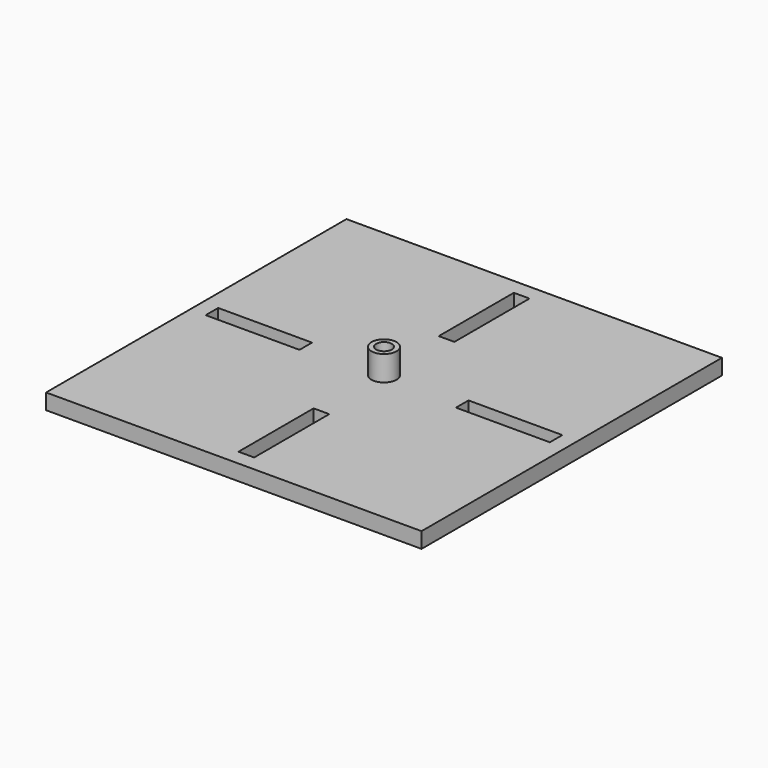
from build123d import *

# Parameters (mm, degrees)
F0_W      = 152.4
F0_H      = 152.4
F1_DEPTH  = 6.35
F2_W      = 38.1
F2_H      = 6.35
F3_DEPTH  = 25.4
F4_W      = 6.35
F4_H      = 38.1
F5_DEPTH  = 25.4
F6_W      = 38.1
F6_H      = 6.35
F7_DEPTH  = 25.4
F8_W      = 6.35
F8_H      = 38.1
F9_DEPTH  = 25.4
F10_R     = 5.08
F11_DEPTH = 10.16
F12_R     = 3.175
F13_DEPTH = 8.89


with BuildPart() as f1:
    # F0 (on Top) → F1 (new body)
    with BuildSketch(Plane.XY):
        Rectangle(F0_W, F0_H)
    extrude(amount=F1_DEPTH)

    # F2 (on face) → F3 (cut)
    with BuildSketch(Plane.XY.offset(6.35)):
        with Locations((50.8, 0)):
            Rectangle(F2_W, F2_H)
    extrude(amount=-F3_DEPTH, mode=Mode.SUBTRACT)

    # F4 (on face) → F5 (cut)
    with BuildSketch(Plane.XY.offset(6.35)):
        with Locations((0, -50.8)):
            Rectangle(F4_W, F4_H)
    extrude(amount=-F5_DEPTH, mode=Mode.SUBTRACT)

    # F6 (on face) → F7 (cut)
    with BuildSketch(Plane.XY.offset(6.35)):
        with Locations((-50.8, 0)):
            Rectangle(F6_W, F6_H)
    extrude(amount=-F7_DEPTH, mode=Mode.SUBTRACT)

    # F8 (on face) → F9 (cut)
    with BuildSketch(Plane.XY.offset(6.35)):
        with Locations((0, 50.8)):
            Rectangle(F8_W, F8_H)
    extrude(amount=-F9_DEPTH, mode=Mode.SUBTRACT)

    # F10 (on face) → F11 (join)
    with BuildSketch(Plane.XY.offset(6.35)):
        Circle(F10_R)
    extrude(amount=F11_DEPTH)

    # F12 (on face) → F13 (cut)
    with BuildSketch(Plane.XY.offset(16.51)):
        Circle(F12_R)
    extrude(amount=-F13_DEPTH, mode=Mode.SUBTRACT)


solid = f1.part
